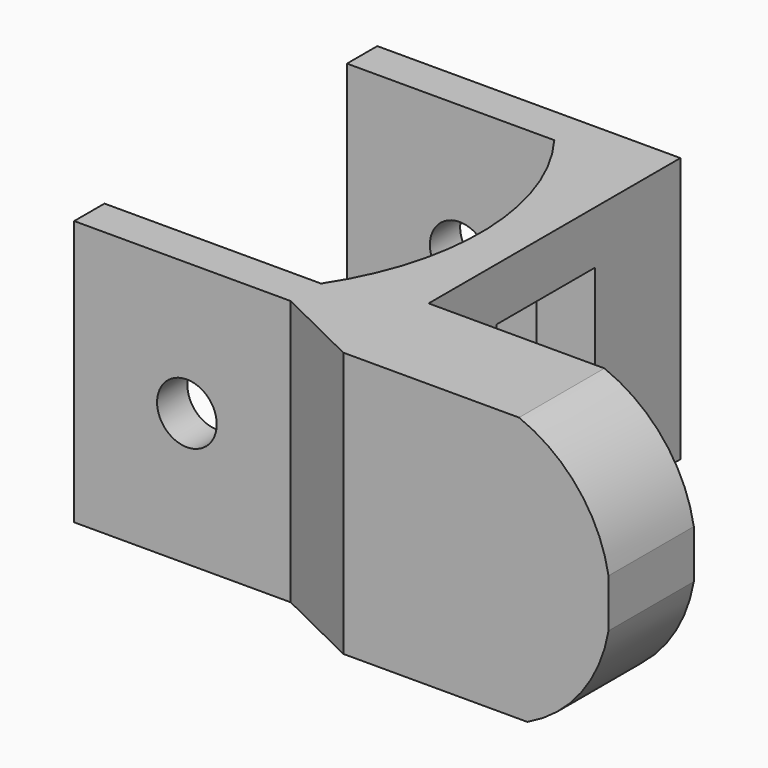
from build123d import *

# Parameters (mm, degrees)
F1_DEPTH = 28
F2_R     = 3.15
F3_DEPTH = 40.001
F4_W     = 13
F4_H     = 17
F5_DEPTH = 32.001
F7_DEPTH = 44.4873


with BuildPart() as f1:
    # F0 (on Top) → F1 (new body)
    with BuildSketch(Plane.XY):
        with BuildLine():
            Line((16, 20), (-16, 20))
            Line((-16, 20), (-16, 16))
            Line((-16, 16), (-14, 16))
            Line((-14, 16), (5.885721, 16))
            ThreePointArc((5.885721, 16), (11.458172, 0.155277), (6.863122, -16))
            Line((6.863122, -16), (-14, -16))
            Line((-14, -16), (-16, -16))
            Line((-16, -16), (-16, -20))
            Line((-16, -20), (6.863122, -20))
            Line((6.863122, -20), (16, -24.4863))
            Line((16, -24.4863), (44, -24.4863))
            Line((44, -24.4863), (44, -20))
            Line((44, -20), (44, -13.228022))
            Line((44, -13.228022), (16, -13.228022))
            Line((16, -13.228022), (16, -10))
            Line((16, -10), (16, 20))
        make_face()
    extrude(amount=F1_DEPTH)

    # F2 (on face) → F3 (cut, through all)
    with BuildSketch(Plane.XZ.offset(20)):
        with Locations((-4.1, 14)):
            Circle(F2_R)
    extrude(amount=-F3_DEPTH, mode=Mode.SUBTRACT)

    # F4 (on face) → F5 (cut, through all)
    with BuildSketch(Plane.YZ.offset(16)):
        with Locations((2.2, 13.9)):
            Rectangle(F4_W, F4_H)
    extrude(amount=-F5_DEPTH, mode=Mode.SUBTRACT)

    # F6 (on face) → F7 (cut, through all)
    with BuildSketch(Plane.XZ.offset(24.4863)):
        with BuildLine():
            ThreePointArc((34.555264, 28), (40.804386, 23.424462), (44, 16.369312))
            Line((44, 16.369312), (44, 28))
            Line((44, 28), (34.555264, 28))
        make_face()
        with BuildLine():
            ThreePointArc((44, 11.252501), (41.099959, 4.573225), (35.433516, 0))
            Line((35.433516, 0), (44, 0))
            Line((44, 0), (44, 11.252501))
        make_face()
    extrude(amount=-F7_DEPTH, mode=Mode.SUBTRACT)


solid = f1.part
